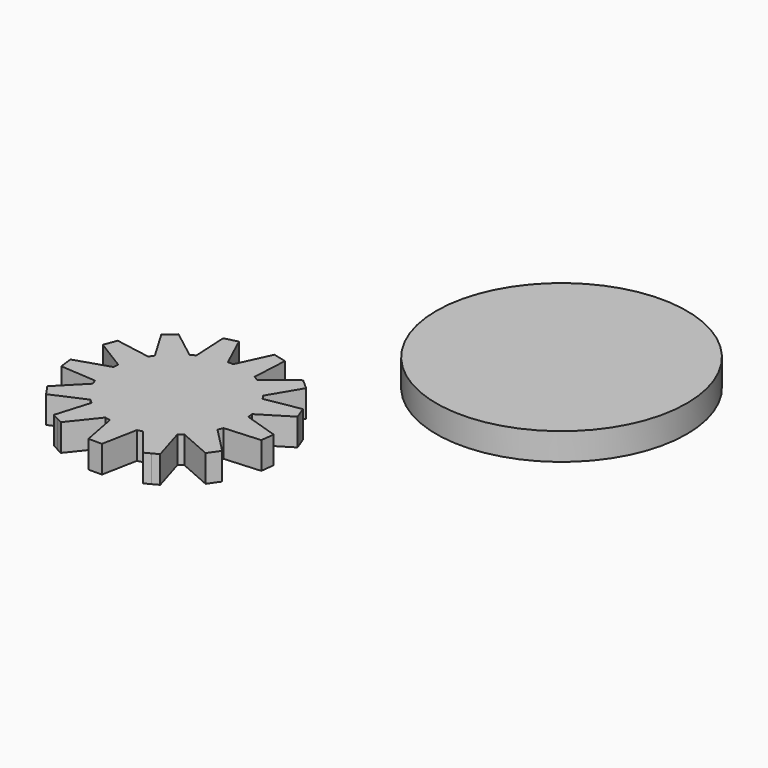
from build123d import *

# Parameters (mm, degrees)
F0_R     = 18.5
F1_DEPTH = 4


with BuildPart() as f1:
    # F0 (on Top) → F1 (new body)
    with BuildSketch(Plane.XY):
        with BuildLine():
            ThreePointArc((9.485447, -3.166431), (9.870524, -1.603983), (10, 0))
            ThreePointArc((10, 0), (9.991895, 0.402528), (9.967594, 0.804404))
            ThreePointArc((9.967594, 0.804404), (9.927089, 1.205367), (9.870461, 1.604372))
            ThreePointArc((9.870461, 1.604372), (9.350162, 3.546049), (8.452041, 5.344437))
            ThreePointArc((8.452041, 5.344437), (8.229839, 5.680647), (7.99427, 6.007632))
            ThreePointArc((7.99427, 6.007632), (6.631227, 7.485107), (5.000227, 8.660123))
            ThreePointArc((5.000227, 8.660123), (4.647232, 8.85456), (4.286689, 9.034617))
            ThreePointArc((4.286689, 9.034617), (2.393157, 9.709418), (0.402921, 9.991879))
            ThreePointArc((0.402921, 9.991879), (0, 10), (-0.402921, 9.991879))
            ThreePointArc((-0.402921, 9.991879), (-2.393157, 9.709418), (-4.286689, 9.034617))
            ThreePointArc((-4.286689, 9.034617), (-4.647232, 8.85456), (-5.000227, 8.660123))
            ThreePointArc((-5.000227, 8.660123), (-6.631227, 7.485107), (-7.99427, 6.007632))
            ThreePointArc((-7.99427, 6.007632), (-8.229839, 5.680647), (-8.452041, 5.344437))
            ThreePointArc((-8.452041, 5.344437), (-9.350162, 3.546049), (-9.870461, 1.604372))
            ThreePointArc((-9.870461, 1.604372), (-9.927089, 1.205367), (-9.967594, 0.804404))
            ThreePointArc((-9.967594, 0.804404), (-9.927089, -1.205367), (-9.485447, -3.166431))
            ThreePointArc((-9.485447, -3.166431), (-9.350162, -3.546049), (-9.199692, -3.919907))
            ThreePointArc((-9.199692, -3.919907), (-8.229839, -5.680647), (-6.927433, -7.211843))
            ThreePointArc((-6.927433, -7.211843), (-6.631227, -7.485107), (-6.324251, -7.746215))
            ThreePointArc((-6.324251, -7.746215), (-4.647232, -8.85456), (-2.782427, -9.605108))
            ThreePointArc((-2.782427, -9.605108), (-2.393157, -9.709418), (-2, -9.797959))
            ThreePointArc((-2, -9.797959), (-1.00509, -9.949362), (0, -10))
            ThreePointArc((0, -10), (1.00509, -9.949362), (2, -9.797959))
            ThreePointArc((2, -9.797959), (2.393157, -9.709418), (2.782427, -9.605108))
            ThreePointArc((2.782427, -9.605108), (4.647232, -8.85456), (6.324251, -7.746215))
            ThreePointArc((6.324251, -7.746215), (6.631227, -7.485107), (6.927433, -7.211843))
            ThreePointArc((6.927433, -7.211843), (8.229839, -5.680647), (9.199692, -3.919907))
            ThreePointArc((9.199692, -3.919907), (9.350162, -3.546049), (9.485447, -3.166431))
        make_face()
        with BuildLine():
            ThreePointArc((9.967594, 0.804404), (9.991895, 0.402528), (10, 0))
            ThreePointArc((10, 0), (9.870524, -1.603983), (9.485447, -3.166431))
            Line((9.485447, -3.166431), (14.770096, -2.800759))
            Line((14.770096, -2.800759), (14.890633, -1.80805))
            Line((14.890633, -1.80805), (15.01117, -0.815341))
            Line((15.01117, -0.815341), (9.967594, 0.804404))
        make_face()
        with BuildLine():
            ThreePointArc((8.452041, 5.344437), (9.350162, 3.546049), (9.870461, 1.604372))
            Line((9.870461, 1.604372), (14.379849, 4.384057))
            Line((14.379849, 4.384057), (14.025244, 5.319073))
            Line((14.025244, 5.319073), (13.670639, 6.25409))
            Line((13.670639, 6.25409), (8.452041, 5.344437))
        make_face()
        with BuildLine():
            Line((12.912823, -7.697987), (9.199692, -3.919907))
            ThreePointArc((9.199692, -3.919907), (8.229839, -5.680647), (6.927433, -7.211843))
            Line((6.927433, -7.211843), (11.776693, -9.343955))
            Line((11.776693, -9.343955), (12.344758, -8.520971))
            Line((12.344758, -8.520971), (12.912823, -7.697987))
        make_face()
        with BuildLine():
            ThreePointArc((5.000227, 8.660123), (6.631227, 7.485107), (7.99427, 6.007632))
            Line((7.99427, 6.007632), (10.695351, 10.564539))
            Line((10.695351, 10.564539), (9.94684, 11.227661))
            Line((9.94684, 11.227661), (9.198329, 11.890784))
            Line((9.198329, 11.890784), (5.000227, 8.660123))
        make_face()
        with BuildLine():
            Line((7.856304, -12.817117), (6.324251, -7.746215))
            ThreePointArc((6.324251, -7.746215), (4.647232, -8.85456), (2.782427, -9.605108))
            Line((2.782427, -9.605108), (6.085392, -13.746564))
            Line((6.085392, -13.746564), (6.970848, -13.28184))
            Line((6.970848, -13.28184), (7.856304, -12.817117))
        make_face()
        with BuildLine():
            ThreePointArc((0.402921, 9.991879), (2.393157, 9.709418), (4.286689, 9.034617))
            Line((4.286689, 9.034617), (4.560677, 14.324812))
            Line((4.560677, 14.324812), (3.589735, 14.564127))
            Line((3.589735, 14.564127), (2.618793, 14.803443))
            Line((2.618793, 14.803443), (0.402921, 9.991879))
        make_face()
        with BuildLine():
            Line((1, -15), (2, -9.797959))
            ThreePointArc((2, -9.797959), (1.00509, -9.949362), (0, -10))
            Line((0, -10), (0, -15))
            Line((0, -15), (1, -15))
        make_face()
        with BuildLine():
            Line((0, -15), (0, -10))
            ThreePointArc((0, -10), (-1.00509, -9.949362), (-2, -9.797959))
            Line((-2, -9.797959), (-1, -15))
            Line((-1, -15), (0, -15))
        make_face()
        with BuildLine():
            ThreePointArc((-4.286689, 9.034617), (-2.393157, 9.709418), (-0.402921, 9.991879))
            Line((-0.402921, 9.991879), (-2.618793, 14.803443))
            Line((-2.618793, 14.803443), (-3.589735, 14.564127))
            Line((-3.589735, 14.564127), (-4.560677, 14.324812))
            Line((-4.560677, 14.324812), (-4.286689, 9.034617))
        make_face()
        with BuildLine():
            Line((-6.085392, -13.746564), (-2.782427, -9.605108))
            ThreePointArc((-2.782427, -9.605108), (-4.647232, -8.85456), (-6.324251, -7.746215))
            Line((-6.324251, -7.746215), (-7.856304, -12.817117))
            Line((-7.856304, -12.817117), (-6.970848, -13.28184))
            Line((-6.970848, -13.28184), (-6.085392, -13.746564))
        make_face()
        with BuildLine():
            ThreePointArc((-7.99427, 6.007632), (-6.631227, 7.485107), (-5.000227, 8.660123))
            Line((-5.000227, 8.660123), (-9.198329, 11.890784))
            Line((-9.198329, 11.890784), (-9.94684, 11.227661))
            Line((-9.94684, 11.227661), (-10.695351, 10.564539))
            Line((-10.695351, 10.564539), (-7.99427, 6.007632))
        make_face()
        with BuildLine():
            Line((-11.776693, -9.343955), (-6.927433, -7.211843))
            ThreePointArc((-6.927433, -7.211843), (-8.229839, -5.680647), (-9.199692, -3.919907))
            Line((-9.199692, -3.919907), (-12.912823, -7.697987))
            Line((-12.912823, -7.697987), (-12.344758, -8.520971))
            Line((-12.344758, -8.520971), (-11.776693, -9.343955))
        make_face()
        with BuildLine():
            ThreePointArc((-9.870461, 1.604372), (-9.350162, 3.546049), (-8.452041, 5.344437))
            Line((-8.452041, 5.344437), (-13.670639, 6.25409))
            Line((-13.670639, 6.25409), (-14.025244, 5.319073))
            Line((-14.025244, 5.319073), (-14.379849, 4.384057))
            Line((-14.379849, 4.384057), (-9.870461, 1.604372))
        make_face()
        with BuildLine():
            Line((-14.770096, -2.800759), (-9.485447, -3.166431))
            ThreePointArc((-9.485447, -3.166431), (-9.927089, -1.205367), (-9.967594, 0.804404))
            Line((-9.967594, 0.804404), (-15.01117, -0.815341))
            Line((-15.01117, -0.815341), (-14.890633, -1.80805))
            Line((-14.890633, -1.80805), (-14.770096, -2.800759))
        make_face()
        with Locations((28.856575, 35.021018)):
            Circle(F0_R)
    extrude(amount=F1_DEPTH)


solid = f1.part
